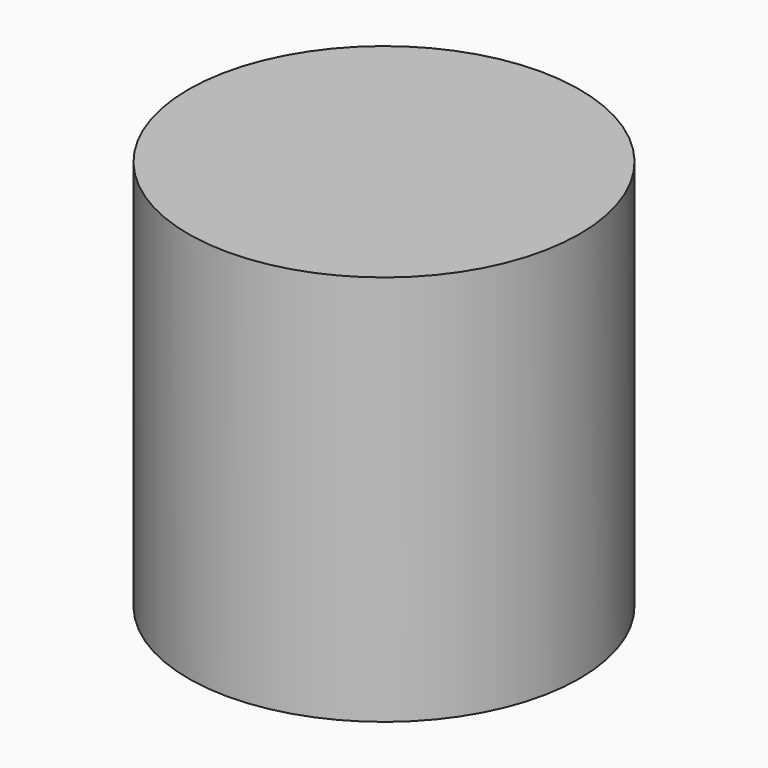
from build123d import *

# Parameters (mm, degrees)
CYLINDER_R     = 500
CYLINDER_DEPTH = 1000


with BuildPart() as part:
    # Cylinder → Cylinder (new body)
    with BuildSketch(Plane.XY):
        Circle(CYLINDER_R)
    extrude(amount=CYLINDER_DEPTH)


solid = part.part
